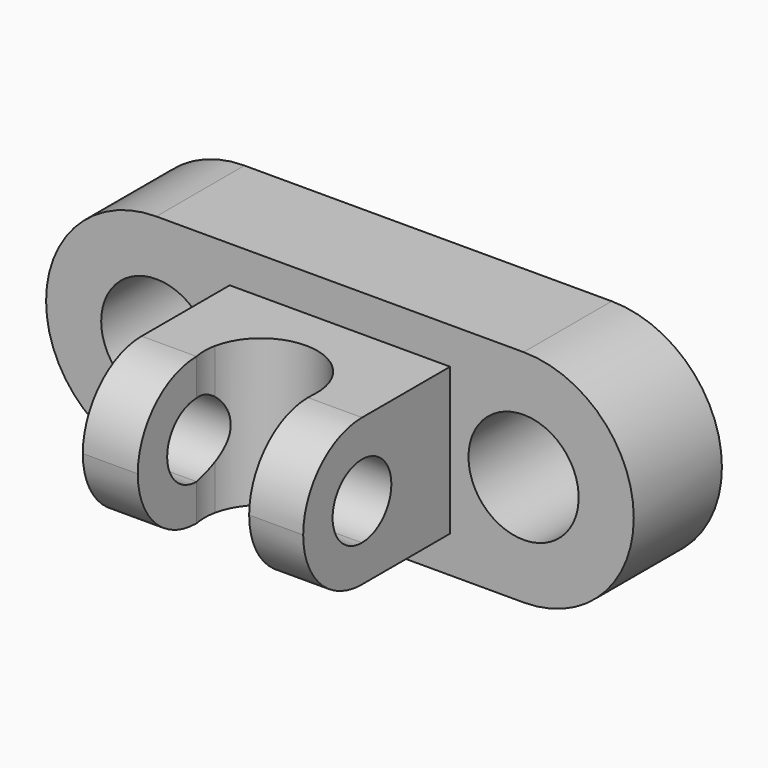
from build123d import *

# Parameters (mm, degrees)
F1_DEPTH = 15
F3_DEPTH = 20
F5_DEPTH = 110.001
F7_DEPTH = 110.001


with BuildPart() as f1:
    # F0 (on Front) → F1 (new body, symmetric)
    with BuildSketch(Plane.XZ):
        with BuildLine():
            Line((35, 0), (-35, 0))
            ThreePointArc((-35, 0), (-50, -15), (-65, 0))
            Line((-65, 0), (-80, 0))
            ThreePointArc((-80, 0), (-71.2132034356, -21.2132034356), (-50, -30))
            Line((-50, -30), (50, -30))
            ThreePointArc((50, -30), (71.2132034356, -21.2132034356), (80, 0))
            Line((80, 0), (65, 0))
            ThreePointArc((65, 0), (50, -15), (35, 0))
        make_face()
        with BuildLine():
            ThreePointArc((-65, 0), (-50, 15), (-35, 0))
            Line((-35, 0), (35, 0))
            ThreePointArc((35, 0), (50, 15), (65, 0))
            Line((65, 0), (80, 0))
            ThreePointArc((80, 0), (71.2132034356, 21.2132034356), (50, 30))
            Line((50, 30), (-50, 30))
            ThreePointArc((-50, 30), (-71.2132034356, 21.2132034356), (-80, 0))
            Line((-80, 0), (-65, 0))
        make_face()
    extrude(amount=F1_DEPTH, both=True)

    # F2 (on Top) → F3 (join, symmetric)
    with BuildSketch(Plane.XY):
        with BuildLine():
            Line((-30, -15), (-30, -65))
            Line((-30, -65), (-15.0350227241, -65))
            Line((-15.0350227241, -65), (-15.0350227241, -44.9706647246))
            ThreePointArc((-15.0350227241, -44.9706647246), (-15.3514603972, -41.869789362), (-15.0350227241, -38.7689139994))
            ThreePointArc((-15.0350227241, -38.7689139994), (0.8607482539, -26.5424788095), (15.2876708067, -40.4717701802))
            ThreePointArc((15.2876708067, -40.4717701802), (15.3514603972, -41.869789362), (15.2876708067, -43.2678085437))
            Line((15.2876708067, -43.2678085437), (15.2876708067, -65))
            Line((15.2876708067, -65), (30, -65))
            Line((30, -65), (30, -15))
            Line((30, -15), (-30, -15))
        make_face()
    extrude(amount=F3_DEPTH, both=True)

    # F4 (on face) → F5 (cut, through all)
    with BuildSketch(Plane(origin=(-30, 0, 0), x_dir=(0, -1, 0), z_dir=(-1, 0, 0))):
        with BuildLine():
            Line((65, 20), (45, 20))
            ThreePointArc((45, 20), (59.1421356638, 14.1421355837), (65, -1.132e-07))
            Line((65, -1.132e-07), (65, 20))
        make_face()
        with BuildLine():
            ThreePointArc((65, -1.132e-07), (59.1421355837, -14.1421356638), (45, -20))
            Line((45, -20), (65, -20))
            Line((65, -20), (65, -1.132e-07))
        make_face()
    extrude(amount=-F5_DEPTH, mode=Mode.SUBTRACT)

    # F6 (on face) → F7 (cut, through all)
    with BuildSketch(Plane(origin=(-30, 0, 0), x_dir=(0, -1, 0), z_dir=(-1, 0, 0))):
        with BuildLine():
            ThreePointArc((55, 0), (52.0710678119, 7.0710678119), (45, 10))
            Line((45, 10), (45, -10))
            ThreePointArc((45, -10), (52.0710678119, -7.0710678119), (55, 0))
        make_face()
        with BuildLine():
            Line((45, -10), (45, 10))
            ThreePointArc((45, 10), (35, 0), (45, -10))
        make_face()
    extrude(amount=-F7_DEPTH, mode=Mode.SUBTRACT)


solid = f1.part
